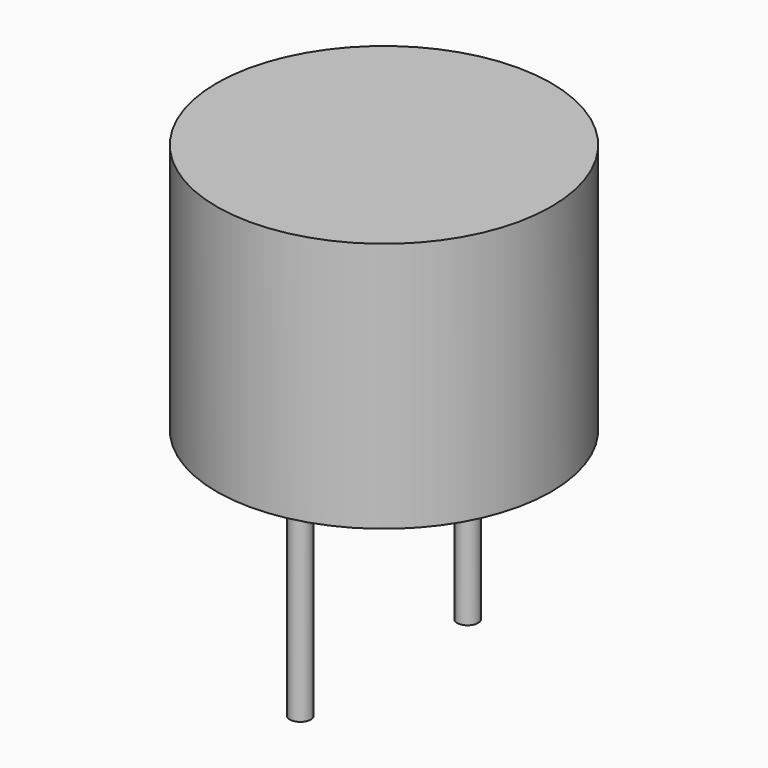
from build123d import *

# Parameters (mm, degrees)
SKETCH_R     = 8
PAD_DEPTH    = 12
SKETCH001_R  = 0.5
PAD001_DEPTH = 10


with BuildPart() as part:
    # Sketch → Pad (new body)
    with BuildSketch(Plane.XY):
        Circle(SKETCH_R)
    extrude(amount=PAD_DEPTH)

    # Sketch001 (on Face2 of Pad) → Pad001 (join)
    with BuildSketch(Plane(origin=(0, 0, 0), x_dir=(1, 0, 0), z_dir=(0, 0, -1))):
        with Locations((0, 5)):
            Circle(SKETCH001_R)
        with Locations((0, -5)):
            Circle(SKETCH001_R)
    extrude(amount=PAD001_DEPTH)


solid = part.part
